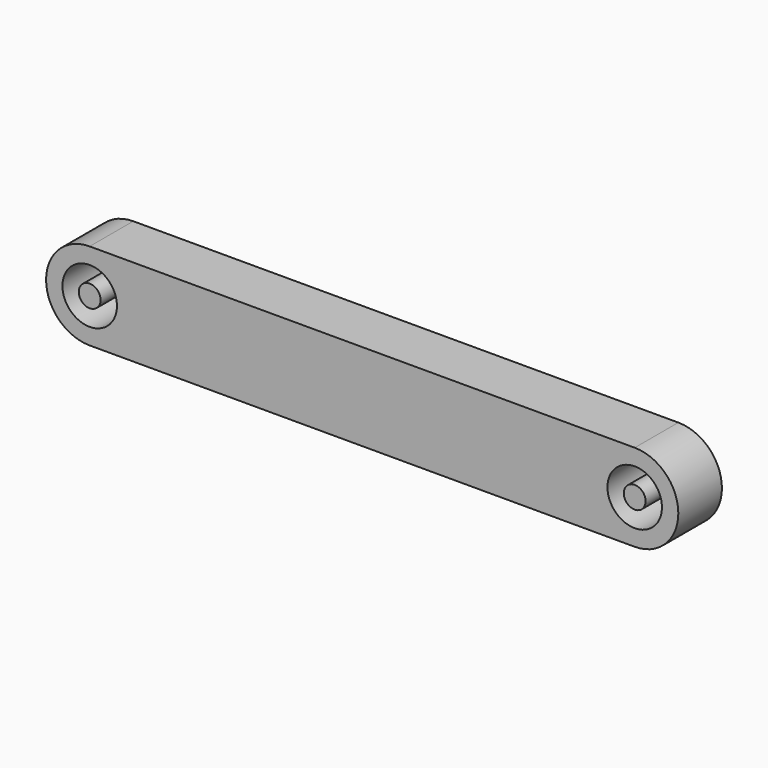
from build123d import *

# Parameters (mm, degrees)
F0_R     = 1
F1_DEPTH = 5
F0_R_2   = 2.5


with BuildPart() as f1:
    # F0 (on Front) → F1 (new body)
    with BuildSketch(Plane.XZ):
        Circle(F0_R)
    extrude(amount=F1_DEPTH)


with BuildPart() as f1b:
    # F0 (on Front) → F1, piece 2 (new body)
    with BuildSketch(Plane.XZ):
        with BuildLine():
            Line((50, 4), (0, 4))
            ThreePointArc((0, 4), (-4, 0), (0, -4))
            Line((0, -4), (50, -4))
            ThreePointArc((50, -4), (54, 0), (50, 4))
        make_face()
        Circle(F0_R_2, mode=Mode.SUBTRACT)
        with BuildLine():
            ThreePointArc((52.5, 0), (50, -2.5), (47.5, 0))
            ThreePointArc((47.5, 0), (50, 2.5), (52.5, 0))
        make_face(mode=Mode.SUBTRACT)
    extrude(amount=F1_DEPTH)


with BuildPart() as f1c:
    # F0 (on Front) → F1, piece 3 (new body)
    with BuildSketch(Plane.XZ):
        with BuildLine():
            ThreePointArc((51, 0), (50, 1), (49, 0))
            ThreePointArc((49, 0), (50, -1), (51, 0))
        make_face()
    extrude(amount=F1_DEPTH)


solid = Compound([f1.part, f1b.part, f1c.part])
